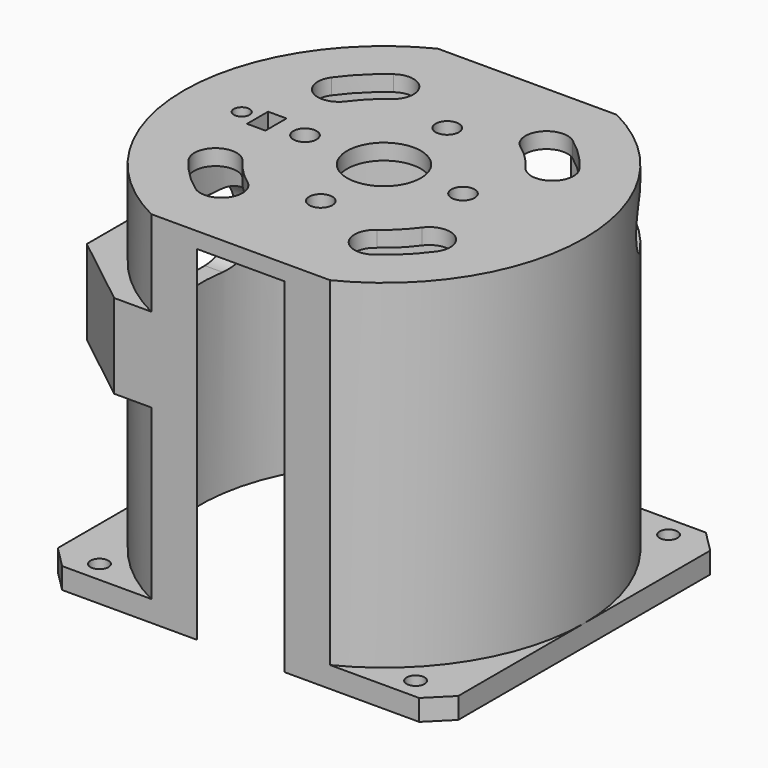
from build123d import *

# Parameters (mm, degrees)
SKETCH_W        = 76
SKETCH_H        = 76
SKETCH_R        = 35
SKETCH_R_2      = 1.7
PAD_DEPTH       = 65.3
SKETCH001_R     = 60
SKETCH001_R_2   = 38
POCKET_DEPTH    = 61.3
SKETCH002_R     = 38
PAD001_DEPTH    = 3
SKETCH003_W     = 100
SKETCH003_H     = 100
SKETCH003_W_2   = 80
SKETCH003_H_2   = 68
POCKET001_DEPTH = 68.301
SKETCH004_W     = 68
SKETCH004_H     = 16
PAD002_DEPTH    = 22
POCKET002_DEPTH = 25
POCKET003_DEPTH = 20
SKETCH030_R     = 35
POCKET004_DEPTH = 18
SKETCH031_R     = 1.7
POCKET005_DEPTH = 30
SKETCH022_R     = 7
SKETCH022_R_2   = 1.5
SKETCH022_R_3   = 2.2
SKETCH022_W     = 3.5
SKETCH022_H     = 5
POCKET006_DEPTH = 5
SKETCH032_W     = 220
SKETCH032_H     = 220
POCKET007_DEPTH = 68.301
POCKET008_DEPTH = 20


with BuildPart() as part:
    # Sketch → Pad (new body)
    with BuildSketch(Plane.XY):
        Rectangle(SKETCH_W, SKETCH_H)
        Circle(SKETCH_R, mode=Mode.SUBTRACT)
        with Locations((-30, 30)):
            Circle(SKETCH_R_2, mode=Mode.SUBTRACT)
        with Locations((30, 30)):
            Circle(SKETCH_R_2, mode=Mode.SUBTRACT)
        with Locations((30, -30)):
            Circle(SKETCH_R_2, mode=Mode.SUBTRACT)
        with Locations((-30, -30)):
            Circle(SKETCH_R_2, mode=Mode.SUBTRACT)
    extrude(amount=PAD_DEPTH)

    # Sketch001 → Pocket (cut)
    with BuildSketch(Plane.XY.offset(65.3)):
        Circle(SKETCH001_R)
        Circle(SKETCH001_R_2, mode=Mode.SUBTRACT)
    extrude(amount=-POCKET_DEPTH, mode=Mode.SUBTRACT)

    # Sketch002 → Pad001 (new body)
    with BuildSketch(Plane.XY.offset(65.3)):
        Circle(SKETCH002_R)
    extrude(amount=PAD001_DEPTH)

    # Sketch003 → Pocket001 (cut, through all)
    with BuildSketch(Plane.XY.offset(68.3)):
        Rectangle(SKETCH003_W, SKETCH003_H)
        Rectangle(SKETCH003_W_2, SKETCH003_H_2, mode=Mode.SUBTRACT)
    extrude(amount=-POCKET001_DEPTH, mode=Mode.SUBTRACT)

    # Sketch004 → Pad002 (new body)
    with BuildSketch(Plane(origin=(-38, 0, 0), x_dir=(0, -1, 0), z_dir=(-1, 0, 0))):
        with Locations((0, 44)):
            Rectangle(SKETCH004_W, SKETCH004_H)
    extrude(amount=-PAD002_DEPTH)

    # Sketch005 → Pocket002 (cut)
    with BuildSketch(Plane(origin=(0, 0, 36), x_dir=(1, 0, 0), z_dir=(0, 0, -1))):
        Polygon((-38, 23), (-38, -23), (-24, -34), (-55, -34), (-55, 34), (-24, 34), align=None)
    extrude(amount=-POCKET002_DEPTH, mode=Mode.SUBTRACT)

    # Sketch029 → Pocket003 (cut)
    with BuildSketch(Plane.YZ.offset(-16)):
        Polygon((-15.883419, 41.2), (-14.266838, 44), (-15.883419, 46.8), (-19.116581, 46.8), (-20.733162, 44), (-19.116581, 41.2), align=None)
        Polygon((14.266838, 44), (15.883419, 41.2), (19.116581, 41.2), (20.733162, 44), (19.116581, 46.8), (15.883419, 46.8), align=None)
    extrude(amount=-POCKET003_DEPTH, mode=Mode.SUBTRACT)

    # Sketch030 → Pocket004 (cut)
    with BuildSketch(Plane.XY.offset(52)):
        Circle(SKETCH030_R)
    extrude(amount=-POCKET004_DEPTH, mode=Mode.SUBTRACT)

    # Sketch031 → Pocket005 (cut)
    with BuildSketch(Plane(origin=(-38, 0, 0), x_dir=(0, -1, 0), z_dir=(-1, 0, 0))):
        with Locations((-17.5, 44)):
            Circle(SKETCH031_R)
        with Locations((17.5, 44)):
            Circle(SKETCH031_R)
        with BuildLine():
            ThreePointArc((-5, 51), (-12, 44), (-5, 37))
            Line((-5, 37), (5, 37))
            ThreePointArc((5, 37), (12, 44), (5, 51))
            Line((-5, 51), (5, 51))
        make_face()
    extrude(amount=-POCKET005_DEPTH, mode=Mode.SUBTRACT)

    # Sketch022 → Pocket006 (cut)
    with BuildSketch(Plane.XY.offset(68.3)):
        Circle(SKETCH022_R)
        with Locations((-27, 0)):
            Circle(SKETCH022_R_2)
        with Locations((0, -15)):
            Circle(SKETCH022_R_3)
        with Locations((0, 15)):
            Circle(SKETCH022_R_3)
        with Locations((15, 0)):
            Circle(SKETCH022_R_3)
        with Locations((-15, 0)):
            Circle(SKETCH022_R_3)
        with BuildLine():
            ThreePointArc((-23.514078, 16.973159), (-22.611882, 11.388713), (-17.027436, 12.290908))
            ThreePointArc((-12.290908, 17.027436), (-14.849242, 14.849242), (-17.027436, 12.290908))
            ThreePointArc((-12.290908, 17.027436), (-11.388713, 22.611882), (-16.973159, 23.514078))
            ThreePointArc((-16.973159, 23.514078), (-20.506097, 20.506097), (-23.514078, 16.973159))
        make_face()
        with BuildLine():
            ThreePointArc((12.290908, -17.027436), (14.849242, -14.849242), (17.027436, -12.290908))
            ThreePointArc((23.514078, -16.973159), (22.611882, -11.388713), (17.027436, -12.290908))
            ThreePointArc((16.973159, -23.514078), (20.506097, -20.506097), (23.514078, -16.973159))
            ThreePointArc((12.290908, -17.027436), (11.388713, -22.611882), (16.973159, -23.514078))
        make_face()
        with BuildLine():
            ThreePointArc((23.514078, 16.973159), (20.506097, 20.506097), (16.973159, 23.514078))
            ThreePointArc((16.973159, 23.514078), (11.388713, 22.611882), (12.290908, 17.027436))
            ThreePointArc((17.027436, 12.290908), (14.849242, 14.849242), (12.290908, 17.027436))
            ThreePointArc((17.027436, 12.290908), (22.611882, 11.388713), (23.514078, 16.973159))
        make_face()
        with BuildLine():
            ThreePointArc((-16.973159, -23.514078), (-11.388713, -22.611882), (-12.290908, -17.027436))
            ThreePointArc((-17.027436, -12.290908), (-14.849242, -14.849242), (-12.290908, -17.027436))
            ThreePointArc((-17.027436, -12.290908), (-22.611882, -11.388713), (-23.514078, -16.973159))
            ThreePointArc((-23.514078, -16.973159), (-20.506097, -20.506097), (-16.973159, -23.514078))
        make_face()
        with Locations((-22.25, 0)):
            Rectangle(SKETCH022_W, SKETCH022_H)
    extrude(amount=-POCKET006_DEPTH, mode=Mode.SUBTRACT)

    # Sketch032 → Pocket007 (cut, through all)
    with BuildSketch(Plane.XY.offset(68.3)):
        Rectangle(SKETCH032_W, SKETCH032_H)
        Polygon((-67.882251, 0), (0, 67.882251), (67.882251, 0), (0, -67.882251), align=None, mode=Mode.SUBTRACT)
    extrude(amount=-POCKET007_DEPTH, mode=Mode.SUBTRACT)

    # Sketch033 → Pocket008 (cut)
    with BuildSketch(Plane(origin=(33.941125, 33.941125, 0), x_dir=(-0.707107, 0.707107, 0), z_dir=(0.707107, 0.707107, 0))):
        with BuildLine():
            ThreePointArc((-6, 65), (-11, 60), (-6, 55))
            Line((-6, 55), (6, 55))
            ThreePointArc((6, 55), (11, 60), (6, 65))
            Line((-6, 65), (6, 65))
        make_face()
    extrude(amount=-POCKET008_DEPTH, mode=Mode.SUBTRACT)


solid = part.part
